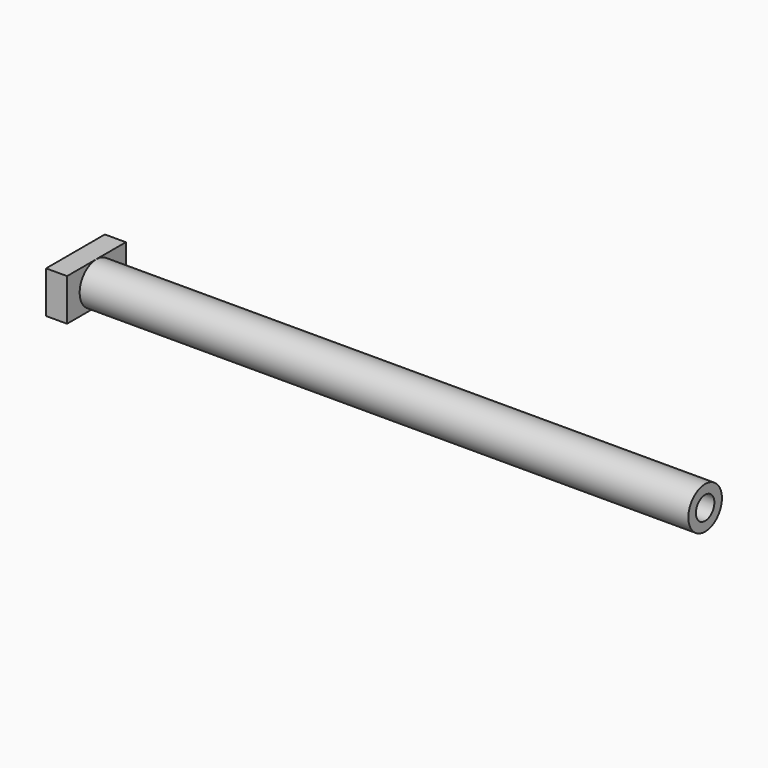
from build123d import *

# Parameters (mm, degrees)
F0_R     = 5.08
F0_R_2   = 2.794
F1_DEPTH = 152.4
F3_DEPTH = 5.08


with BuildPart() as f1:
    # F0 (on Right) → F1 (new body)
    with BuildSketch(Plane.YZ):
        Circle(F0_R)
        Circle(F0_R_2, mode=Mode.SUBTRACT)
    extrude(amount=F1_DEPTH)

    # F2 (on Right) → F3 (join)
    with BuildSketch(Plane.YZ):
        with BuildLine():
            Line((-8.89, -5.08), (0, -5.08))
            ThreePointArc((0, -5.08), (-5.08, 0), (0, 5.08))
            Line((0, 5.08), (-8.89, 5.08))
            Line((-8.89, 5.08), (-8.89, -5.08))
        make_face()
        with BuildLine():
            Line((0, -5.08), (8.89, -5.08))
            Line((8.89, -5.08), (8.89, 5.08))
            Line((8.89, 5.08), (0, 5.08))
            ThreePointArc((0, 5.08), (3.592102, 3.592102), (5.08, 0))
            ThreePointArc((5.08, 0), (3.592102, -3.592102), (0, -5.08))
        make_face()
    extrude(amount=F3_DEPTH)


solid = f1.part
